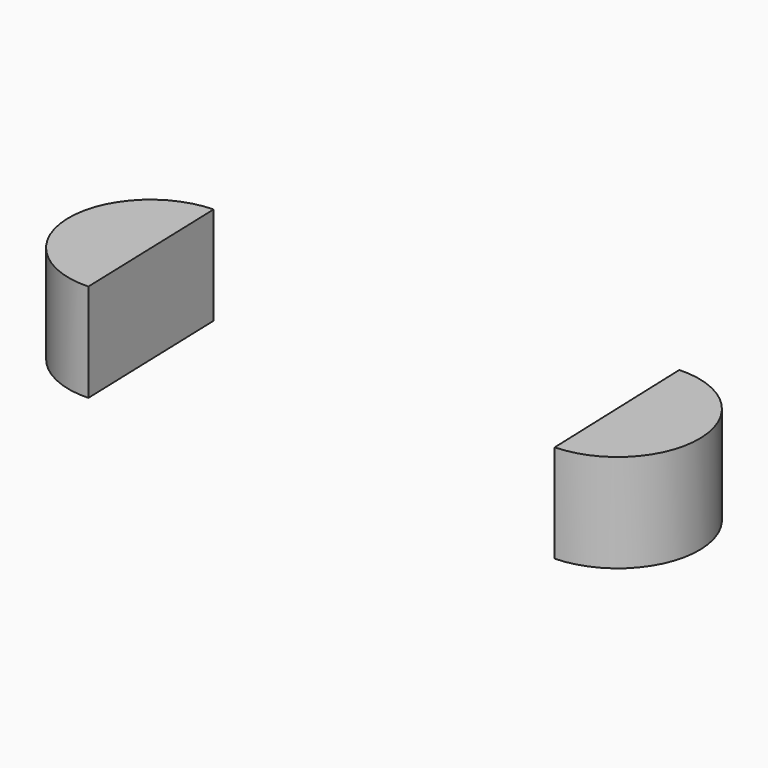
from build123d import *

# Parameters (mm, degrees)
F1_DEPTH = 4.7625


with BuildPart() as f1:
    # F0 (on Top) → F1 (new body)
    with BuildSketch(Plane.XY):
        with BuildLine():
            Line((-31.276945, 0), (-30.99688, -7.914695))
            ThreePointArc((-30.99688, -7.914695), (-27.152531, -3.816358), (-31.276945, 0))
        make_face()
        with BuildLine():
            Line((-53.05771, -8.652143), (-53.306823, -0.736413))
            ThreePointArc((-53.306823, -0.736413), (-57.167169, -4.819686), (-53.05771, -8.652143))
        make_face()
    extrude(amount=F1_DEPTH)


solid = f1.part
